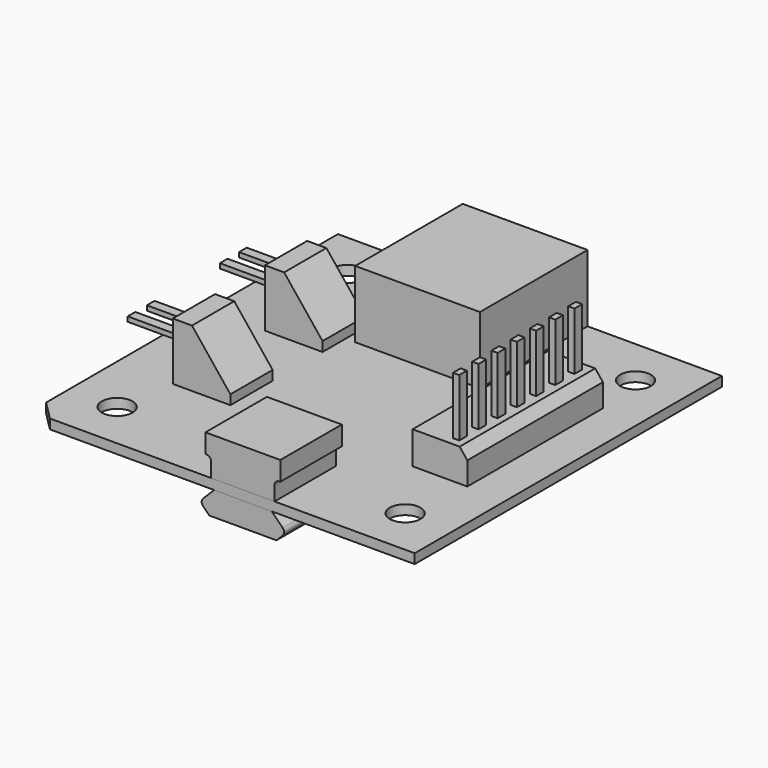
from build123d import *

# Parameters (mm, degrees)
F1_DEPTH  = 1
F2_R      = 1.6
F3_DEPTH  = 1
F4_W      = 13
F4_H      = 14
F5_DEPTH  = 7
F7_DEPTH  = 8
F8_R      = 0.5
F10_DEPTH = 5.4
F11_W     = 5.25
F11_H     = 4.4
F12_DEPTH = 1
F13_W     = 5.7
F13_H     = 17.65
F14_DEPTH = 3.4
F15_W     = 0.65
F15_H     = 1
F16_DEPTH = 6
F18_DEPTH = 17.65
F19_W     = 6
F19_H     = 5.5
F20_DEPTH = 6
F21_W     = 1
F21_H     = 0.5
F22_DEPTH = 5.5
F24_DEPTH = 5.5


with BuildPart() as f1:
    # F0 (on Top) → F1 (new body)
    with BuildSketch(Plane.XY):
        Polygon((20, 20), (-20, 20), (-20, -18), (-18, -20), (20, -20), align=None)
    extrude(amount=-F1_DEPTH)

    # F2 (on face) → F3 (cut, through all)
    with BuildSketch(Plane.XY):
        with Locations((-15, 15)):
            Circle(F2_R)
        with Locations((-15, -15)):
            Circle(F2_R)
        with Locations((15, -15)):
            Circle(F2_R)
        with Locations((15, 15)):
            Circle(F2_R)
    extrude(amount=-F3_DEPTH, mode=Mode.SUBTRACT)


with BuildPart() as f5:
    # F4 (on face) → F5 (new body)
    with BuildSketch(Plane.XY):
        with Locations((-0.5, 13)):
            Rectangle(F4_W, F4_H)
    extrude(amount=F5_DEPTH)


with BuildPart() as f7:
    # F6 (on face) → F7 (new body)
    with BuildSketch(Plane.XZ.offset(20)):
        Polygon((-1.2, 2), (-1.2, 0), (5.4, 0), (5.4, 2), (6, 2), (6, 4), (-1.8, 4), (-1.8, 2), align=None)
    extrude(amount=-F7_DEPTH)

    # F8
    f8_edges = [f7.edges().sort_by_distance(p)[0] for p in [
        (-1.2, -16, 2),
        (5.4, -16, 2),
    ]]
    fillet(f8_edges, radius=F8_R)


with BuildPart() as f10:
    # F9 (on face) → F10 (new body)
    with BuildSketch(Plane.XZ.offset(20)):
        with BuildLine():
            Line((5.1, -1), (-0.9, -1))
            Line((-0.9, -1), (-2.0464466094, -2.1464466094))
            ThreePointArc((-2.0464466094, -2.1464466094), (-2.1928932188, -2.5), (-2.0464466094, -2.8535533906))
            Line((-2.0464466094, -2.8535533906), (-1.4, -3.5))
            Line((-1.4, -3.5), (5.6, -3.5))
            Line((5.6, -3.5), (6.2464466094, -2.8535533906))
            ThreePointArc((6.2464466094, -2.8535533906), (6.3928932188, -2.5), (6.2464466094, -2.1464466094))
            Line((6.2464466094, -2.1464466094), (5.1, -1))
        make_face()
    extrude(amount=-F10_DEPTH)


with BuildPart() as f12:
    # F11 (on face) → F12 (new body)
    with BuildSketch(Plane(origin=(0, 0, -1), x_dir=(1, 0, 0), z_dir=(0, 0, -1))):
        with Locations((-0.975, -1.6)):
            Rectangle(F11_W, F11_H)
    extrude(amount=F12_DEPTH)


with BuildPart() as f14:
    # F13 (on face) → F14 (new body)
    with BuildSketch(Plane.XY):
        with Locations((13.15, 0.675)):
            Rectangle(F13_W, F13_H)
    extrude(amount=F14_DEPTH)

    # F15 (on face) → F16 (join)
    with BuildSketch(Plane.XY.offset(3.4)):
        with Locations((14.175, 8.175)):
            Rectangle(F15_W, F15_H)
        with Locations((14.175, 5.675)):
            Rectangle(F15_W, F15_H)
        with Locations((14.175, 3.175)):
            Rectangle(F15_W, F15_H)
        with Locations((14.175, 0.675)):
            Rectangle(F15_W, F15_H)
        with Locations((14.175, -1.825)):
            Rectangle(F15_W, F15_H)
        with Locations((14.175, -4.325)):
            Rectangle(F15_W, F15_H)
        with Locations((14.175, -6.825)):
            Rectangle(F15_W, F15_H)
    extrude(amount=F16_DEPTH)

    # F17 (on face) → F18 (cut, through all)
    with BuildSketch(Plane.XZ.offset(8.15)):
        Polygon((16, 3.4), (15.2, 3.4), (16, 2.4), align=None)
    extrude(amount=-F18_DEPTH, mode=Mode.SUBTRACT)


with BuildPart() as f20:
    # F19 (on face) → F20 (new body)
    with BuildSketch(Plane.XY):
        with Locations((-11, 5.75)):
            Rectangle(F19_W, F19_H)
    extrude(amount=F20_DEPTH)

    # F21 (on face) → F22 (join)
    with BuildSketch(Plane(origin=(-14, 0, 0), x_dir=(0, -1, 0), z_dir=(-1, 0, 0))):
        with Locations((-7, 3.75)):
            Rectangle(F21_W, F21_H)
        with Locations((-4.5, 3.75)):
            Rectangle(F21_W, F21_H)
    extrude(amount=F22_DEPTH)

    # F23 (on face) → F24 (cut, through all)
    with BuildSketch(Plane(origin=(0, 8.5, 0), x_dir=(-1, 0, 0), z_dir=(0, 1, 0))):
        Polygon((12, 6), (8, 6), (8, 1), align=None)
    extrude(amount=-F24_DEPTH, mode=Mode.SUBTRACT)


with BuildPart() as f20b:
    # F19 (on face) → F20, piece 2 (new body)
    with BuildSketch(Plane.XY):
        with Locations((-11, -6.75)):
            Rectangle(F19_W, F19_H)
    extrude(amount=F20_DEPTH)


with BuildPart() as f26_1:
    # F26: copy of F20
    add(f20.part.moved(Location((0, 0, 12))))


with BuildPart() as f28_1:
    # F28: copy of F20
    add(f20.part.moved(Location((0, -12, 0))))


solid = Compound([f1.part, f5.part, f7.part, f10.part, f12.part, f14.part, f20.part, f28_1.part])
